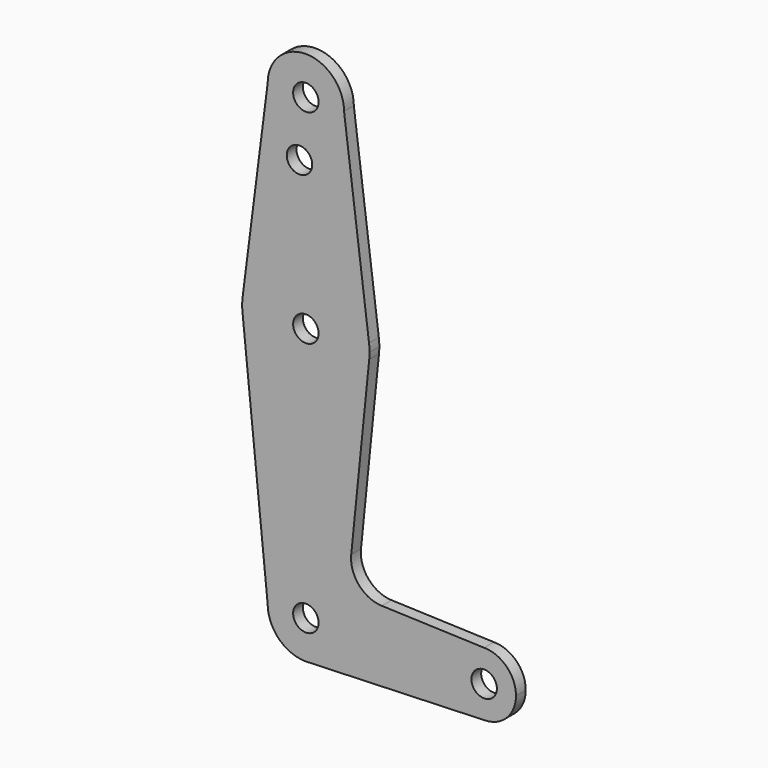
from build123d import *

# Parameters (mm, degrees)
F0_R     = 3.175
F1_DEPTH = 3.048


with BuildPart() as f1:
    # F0 (on Front) → F1 (new body)
    with BuildSketch(Plane.XZ):
        with BuildLine():
            ThreePointArc((-9.525, 114.3), (0, 104.775), (9.525, 114.3))
            ThreePointArc((9.525, 114.3), (0, 123.825), (-9.525, 114.3))
        make_face()
        with Locations((0, 114.3)):
            Circle(F0_R, mode=Mode.SUBTRACT)
        with BuildLine():
            Line((15.747457, 65.508289), (9.525, 114.3))
            ThreePointArc((9.525, 114.3), (0, 104.775), (-9.525, 114.3))
            Line((-9.525, 114.3), (-15.747457, 65.508289))
            ThreePointArc((-15.747457, 65.508289), (0, 79.375), (15.747457, 65.508289))
        make_face()
        with Locations((-1.5875, 100.0252)):
            Circle(F0_R, mode=Mode.SUBTRACT)
        with BuildLine():
            ThreePointArc((15.875, 63.5), (15.843082, 64.506168), (15.747457, 65.508289))
            ThreePointArc((15.747457, 65.508289), (0, 79.375), (-15.747457, 65.508289))
            ThreePointArc((-15.747457, 65.508289), (-15.875, 63.5), (-15.747457, 61.491711))
            ThreePointArc((-15.747457, 61.491711), (0.205667, 47.626332), (15.794203, 61.90038))
            ThreePointArc((15.794203, 61.90038), (15.854788, 62.699171), (15.875, 63.5))
        make_face()
        with Locations((0, 63.5)):
            Circle(F0_R, mode=Mode.SUBTRACT)
        with BuildLine():
            ThreePointArc((15.794203, 61.90038), (0.205667, 47.626332), (-15.747457, 61.491711))
            Line((-15.747457, 61.491711), (-9.525, 0))
            ThreePointArc((-9.525, 0), (0, 9.525), (9.525, 0))
            ThreePointArc((9.525, 0), (6.970557, -6.491299), (0.677344, -9.500886))
            Line((0.677344, -9.500886), (44.732405, -7.932475))
            ThreePointArc((44.732405, -7.932475), (36.513756, -0.141225), (44.45, 7.9375))
            Line((44.45, 7.9375), (18.932989, 8.848822))
            ThreePointArc((18.932989, 8.848822), (13.224462, 11.569184), (11.307007, 17.595046))
            Line((11.307007, 17.595046), (15.794203, 61.90038))
        make_face()
        with BuildLine():
            ThreePointArc((9.525, 0), (0, 9.525), (-9.525, 0))
            ThreePointArc((-9.525, 0), (-6.735192, -6.735192), (0, -9.525))
            Line((0, -9.525), (0.677344, -9.500886))
            ThreePointArc((0.677344, -9.500886), (6.970557, -6.491299), (9.525, 0))
        make_face()
        Circle(F0_R, mode=Mode.SUBTRACT)
        with BuildLine():
            Line((0.677344, -9.500886), (0, -9.525))
            ThreePointArc((0, -9.525), (0.338886, -9.51897), (0.677344, -9.500886))
        make_face()
        with BuildLine():
            ThreePointArc((52.3875, 0), (50.06266, 5.61266), (44.45, 7.9375))
            ThreePointArc((44.45, 7.9375), (36.513756, -0.141225), (44.732405, -7.932475))
            ThreePointArc((44.732405, -7.932475), (50.161633, -5.51191), (52.3875, 0))
        make_face()
        with Locations((44.45, 0)):
            Circle(F0_R, mode=Mode.SUBTRACT)
    extrude(amount=F1_DEPTH)


solid = f1.part
